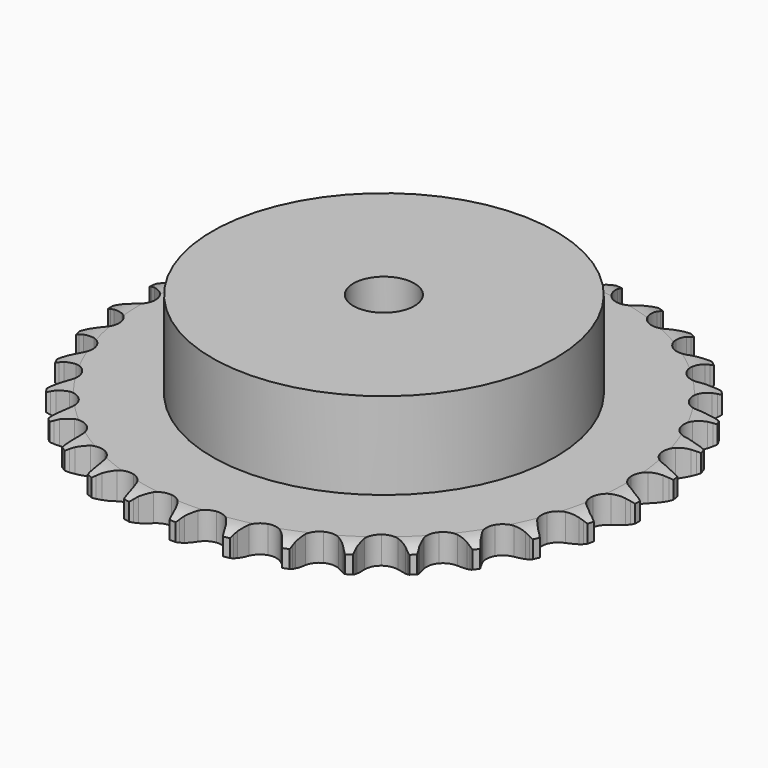
from build123d import *

# Parameters (mm, degrees)
PAD_DEPTH         = 7.2
SKETCH001_R       = 45
PAD001_DEPTH      = 30
SKETCH002_R       = 8
POCKET_DEPTH      = 0.001
POCKET_DEPTH_BACK = 30.001


with BuildPart() as part:
    # Sprocket → Pad (new body)
    with BuildSketch(Plane.XY):
        with BuildLine():
            ThreePointArc((-6.71181, 70.289252), (-5.944232, 69.253929), (-5.382059, 68.094174))
            Line((-5.382059, 68.094174), (-4.966904, 66.984686))
            ThreePointArc((-4.966904, 66.984686), (-4.30897, 65.54703), (-3.453835, 64.217188))
            ThreePointArc((-3.453835, 64.217188), (-1.931189, 62.944673), (0, 62.488321))
            ThreePointArc((0, 62.488321), (1.931189, 62.944673), (3.453835, 64.217188))
            ThreePointArc((3.453835, 64.217188), (4.30897, 65.54703), (4.966904, 66.984686))
            Line((4.966904, 66.984686), (5.382059, 68.094174))
            ThreePointArc((5.382059, 68.094174), (5.944232, 69.253929), (6.71181, 70.289252))
            ThreePointArc((6.71181, 70.289252), (7.26958, 69.127373), (7.602109, 67.882185))
            Line((7.602109, 67.882185), (7.799789, 66.714178))
            ThreePointArc((7.799789, 66.714178), (8.173756, 65.177987), (8.761763, 63.710342))
            ThreePointArc((8.761763, 63.710342), (10.016068, 62.172661), (11.825993, 61.359076))
            ThreePointArc((11.825993, 61.359076), (13.808647, 61.441701), (15.544603, 62.403057))
            Line((15.544603, 62.403057), (17.554081, 64.834193))
            ThreePointArc((17.554081, 64.834193), (17.849425, 65.347856), (18.171705, 65.845062))
            ThreePointArc((18.171705, 65.845062), (18.943204, 66.877467), (19.892847, 67.748815))
            ThreePointArc((19.892847, 67.748815), (20.220651, 66.502374), (20.311517, 65.216757))
            Line((20.311517, 65.216757), (20.284578, 64.032446))
            ThreePointArc((20.284578, 64.032446), (20.361061, 62.453243), (20.660688, 60.900839))
            ThreePointArc((20.660688, 60.900839), (21.601318, 59.153566), (23.224563, 58.012154))
            ThreePointArc((23.224563, 58.012154), (25.187025, 57.718066), (27.073547, 58.333517))
            Line((27.073547, 58.333517), (29.506807, 60.340423))
            ThreePointArc((29.506807, 60.340423), (29.894026, 60.788909), (30.304579, 61.216138))
            ThreePointArc((30.304579, 61.216138), (31.257519, 62.083879), (32.354905, 62.75976))
            ThreePointArc((32.354905, 62.75976), (32.440895, 61.473807), (32.286814, 60.194225))
            Line((32.286814, 60.194225), (32.03623, 59.036415))
            ThreePointArc((32.03623, 59.036415), (31.812464, 57.471275), (31.812882, 55.89022))
            ThreePointArc((31.812882, 55.89022), (32.40584, 53.996508), (33.783737, 52.568521))
            ThreePointArc((33.783737, 52.568521), (35.655079, 51.908349), (37.623984, 52.155652))
            Line((37.623984, 52.155652), (40.393081, 53.665793))
            ThreePointArc((40.393081, 53.665793), (40.858179, 54.032893), (41.342166, 54.374704))
            ThreePointArc((41.342166, 54.374704), (42.442107, 55.046418), (43.647572, 55.502403))
            ThreePointArc((43.647572, 55.502403), (43.48864, 54.223415), (43.095181, 52.996117))
            Line((43.095181, 52.996117), (42.630008, 51.906654))
            ThreePointArc((42.630008, 51.906654), (42.114081, 50.412146), (41.815275, 48.859584))
            ThreePointArc((41.815275, 48.859584), (42.039131, 46.887875), (43.121879, 45.224925))
            ThreePointArc((43.121879, 45.224925), (44.834465, 44.22253), (46.814592, 44.092746))
            Line((46.814592, 44.092746), (49.819444, 45.051541))
            ThreePointArc((49.819444, 45.051541), (50.34561, 45.323987), (50.88554, 45.568025))
            ThreePointArc((50.88554, 45.568025), (52.092726, 46.019436), (53.362702, 46.239045))
            ThreePointArc((53.362702, 46.239045), (52.964592, 45.013248), (52.345976, 43.882592))
            Line((52.345976, 43.882592), (51.683027, 42.900851))
            ThreePointArc((51.683027, 42.900851), (50.893586, 41.53099), (50.306356, 40.063035))
            ThreePointArc((50.306356, 40.063035), (50.153018, 38.084592), (50.901484, 36.246783))
            ThreePointArc((50.901484, 36.246783), (52.393416, 34.938393), (54.313198, 34.436212))
            Line((54.313198, 34.436212), (57.445202, 34.809009))
            ThreePointArc((57.445202, 34.809009), (58.013421, 34.976954), (58.589777, 35.1144))
            ThreePointArc((58.589777, 35.1144), (59.860578, 35.329191), (61.149166, 35.304487))
            ThreePointArc((61.149166, 35.304487), (60.526266, 34.176185), (59.704851, 33.183035))
            Line((59.704851, 33.183035), (58.868087, 32.344499))
            ThreePointArc((58.868087, 32.344499), (57.833665, 31.148797), (56.979234, 29.818503))
            ThreePointArc((56.979234, 29.818503), (56.454244, 27.904833), (56.841376, 25.958587))
            ThreePointArc((56.841376, 25.958587), (58.058733, 24.391491), (59.848784, 23.535065))
            Line((59.848784, 23.535065), (62.99474, 23.308389))
            ThreePointArc((62.99474, 23.308389), (63.584475, 23.365763), (64.176427, 23.391649))
            ThreePointArc((64.176427, 23.391649), (65.464913, 23.362058), (66.725539, 23.093934))
            ThreePointArc((66.725539, 23.093934), (65.900363, 22.103906), (64.905837, 21.284157))
            Line((64.905837, 21.284157), (63.925501, 20.619133))
            ThreePointArc((63.925501, 20.619133), (62.683484, 19.640804), (61.592733, 18.496253))
            ThreePointArc((61.592733, 18.496253), (60.715067, 16.71652), (60.726874, 14.73218))
            ThreePointArc((60.726874, 14.73218), (61.625657, 12.963018), (63.221278, 11.783299))
            Line((63.221278, 11.783299), (66.267485, 10.965343))
            ThreePointArc((66.267485, 10.965343), (66.85742, 10.910072), (67.443574, 10.823463))
            ThreePointArc((67.443574, 10.823463), (68.703175, 10.550559), (69.890277, 10.048705))
            ThreePointArc((69.890277, 10.048705), (68.89265, 9.232734), (67.760958, 8.616014))
            Line((67.760958, 8.616014), (66.67248, 8.148538))
            ThreePointArc((66.67248, 8.148538), (65.267758, 7.422942), (63.980111, 6.5055))
            ThreePointArc((63.980111, 6.5055), (62.781489, 4.924029), (62.417543, 2.973314))
            ThreePointArc((62.417543, 2.973314), (62.965268, 1.066027), (64.308792, -0.394346))
            Line((64.308792, -0.394346), (67.14515, -1.774019))
            ThreePointArc((67.14515, -1.774019), (67.713964, -1.939937), (68.273135, -2.135912))
            ThreePointArc((68.273135, -2.135912), (69.458325, -2.642264), (70.528999, -3.35971))
            ThreePointArc((70.528999, -3.35971), (69.394976, -3.972133), (68.16702, -4.363534))
            Line((68.16702, -4.363534), (67.009743, -4.616567))
            ThreePointArc((67.009743, -4.616567), (65.493086, -5.063204), (64.055081, -5.720379))
            ThreePointArc((64.055081, -5.720379), (62.578824, -7.046429), (61.85228, -8.893015))
            ThreePointArc((61.85228, -8.893015), (62.02915, -10.869493), (63.072017, -12.557739))
            Line((63.072017, -12.557739), (65.596014, -14.449263))
            ThreePointArc((65.596014, -14.449263), (66.123149, -14.719832), (66.635127, -15.018089))
            ThreePointArc((66.635127, -15.018089), (67.703071, -15.73959), (68.618618, -16.646697))
            ThreePointArc((68.618618, -16.646697), (67.389187, -17.033437), (66.109349, -17.185373))
            Line((66.109349, -17.185373), (64.925098, -17.214816))
            ThreePointArc((64.925098, -17.214816), (63.351323, -17.366354), (61.814934, -17.739508))
            ThreePointArc((61.814934, -17.739508), (60.114398, -18.762211), (59.051515, -20.437928))
            ThreePointArc((59.051515, -20.437928), (58.851138, -22.412161), (59.555656, -24.267262))
            Line((59.555656, -24.267262), (61.676068, -26.602273))
            ThreePointArc((61.676068, -26.602273), (62.142471, -26.967714), (62.588751, -27.357473))
            ThreePointArc((62.588751, -27.357473), (63.500851, -28.268045), (64.228182, -29.332028))
            ThreePointArc((64.228182, -29.332028), (62.947778, -29.479109), (61.662314, -29.386087))
            Line((61.662314, -29.386087), (60.493892, -29.190878))
            ThreePointArc((60.493892, -29.190878), (58.919878, -29.041838), (57.340634, -29.117485))
            ThreePointArc((57.340634, -29.117485), (55.47728, -29.799878), (54.116474, -31.244161))
            ThreePointArc((54.116474, -31.244161), (53.546092, -33.144795), (53.886798, -35.099703))
            Line((53.886798, -35.099703), (55.526988, -37.793808))
            ThreePointArc((55.526988, -37.793808), (55.915802, -38.240912), (56.280255, -38.708087))
            ThreePointArc((56.280255, -38.708087), (57.003546, -39.77482), (57.516373, -40.957224))
            ThreePointArc((57.516373, -40.957224), (56.231271, -40.859328), (54.986642, -40.524712))
            Line((54.986642, -40.524712), (53.876278, -40.111905))
            ThreePointArc((53.876278, -40.111905), (52.358915, -39.667674), (50.793893, -39.44308))
            ThreePointArc((50.793893, -39.44308), (48.83507, -39.7605), (47.225522, -40.921148))
            ThreePointArc((47.225522, -40.921148), (46.30575, -42.67949), (46.270331, -44.663549))
            Line((46.270331, -44.663549), (47.371017, -47.619376))
            ThreePointArc((47.371017, -47.619376), (47.668191, -48.131984), (47.937644, -48.65969))
            ThreePointArc((47.937644, -48.65969), (48.445983, -49.844029), (48.725771, -51.102118))
            ThreePointArc((48.725771, -51.102118), (47.48242, -50.762785), (46.32361, -50.198668))
            Line((46.32361, -50.198668), (45.311436, -49.583183))
            ThreePointArc((45.311436, -49.583183), (43.905564, -48.859817), (42.411329, -48.3431))
            ThreePointArc((42.411329, -48.3431), (40.427832, -48.284074), (38.627717, -49.119138))
            ThreePointArc((38.627717, -49.119138), (37.391799, -50.671637), (36.981534, -52.613138))
            Line((36.981534, -52.613138), (37.502935, -55.723856))
            ThreePointArc((37.502935, -55.723856), (37.697726, -56.283441), (37.862441, -56.852604))
            ThreePointArc((37.862441, -56.852604), (38.137456, -58.111745), (38.174094, -59.400049))
            ThreePointArc((38.174094, -59.400049), (37.017431, -58.831542), (35.986321, -58.058313))
            Line((35.986321, -58.058313), (35.10892, -57.262396))
            ThreePointArc((35.10892, -57.262396), (33.865352, -56.286039), (32.49591, -55.495874))
            ThreePointArc((32.49591, -55.495874), (30.559427, -55.062535), (28.633806, -55.541835))
            ThreePointArc((28.633806, -55.541835), (27.12641, -56.832379), (26.356128, -58.661152))
            Line((26.356128, -58.661152), (26.279399, -61.814331))
            ThreePointArc((26.279399, -61.814331), (26.364768, -62.400667), (26.418792, -62.990718))
            ThreePointArc((26.418792, -62.990718), (26.450543, -64.279151), (26.242705, -65.551108))
            ThreePointArc((26.242705, -65.551108), (25.214535, -64.773974), (24.348394, -63.81958))
            Line((24.348394, -63.81958), (23.637477, -62.871997))
            ThreePointArc((23.637477, -62.871997), (22.601158, -61.677937), (21.406003, -60.642883))
            ThreePointArc((21.406003, -60.642883), (19.586526, -59.850893), (17.604995, -59.957105))
            ThreePointArc((17.604995, -59.957105), (15.880602, -60.93905), (14.778142, -62.588998))
            Line((14.778142, -62.588998), (14.106057, -65.670674))
            ThreePointArc((14.106057, -65.670674), (14.078919, -66.262571), (14.020298, -66.852183))
            ThreePointArc((14.020298, -66.852183), (13.807638, -68.123342), (13.362836, -69.332978))
            ThreePointArc((13.362836, -69.332978), (12.50032, -68.375306), (11.830451, -67.274241))
            Line((11.830451, -67.274241), (11.311713, -66.20924))
            ThreePointArc((11.311713, -66.20924), (10.520099, -64.840634), (9.542428, -63.598099))
            ThreePointArc((9.542428, -63.598099), (7.905716, -62.476084), (5.939893, -62.205369))
            ThreePointArc((5.939893, -62.205369), (4.060828, -62.843226), (2.666036, -64.254715))
            Line((2.666036, -64.254715), (1.422886, -67.153508))
            ThreePointArc((1.422886, -67.153508), (1.28422, -67.729573), (1.115074, -68.297435))
            ThreePointArc((1.115074, -68.297435), (0.665688, -69.505377), (0, -70.608975))
            ThreePointArc((0, -70.608975), (-0.665688, -69.505377), (-1.115074, -68.297435))
            Line((-1.115074, -68.297435), (-1.422886, -67.153508))
            ThreePointArc((-1.422886, -67.153508), (-1.941183, -65.659821), (-2.666036, -64.254715))
            ThreePointArc((-2.666036, -64.254715), (-4.060828, -62.843226), (-5.939893, -62.205369))
            ThreePointArc((-5.939893, -62.205369), (-7.905716, -62.476084), (-9.542428, -63.598099))
            Line((-9.542428, -63.598099), (-11.311713, -66.20924))
            ThreePointArc((-11.311713, -66.20924), (-11.556893, -66.748652), (-11.830451, -67.274241))
            ThreePointArc((-11.830451, -67.274241), (-12.50032, -68.375306), (-13.362836, -69.332978))
            ThreePointArc((-13.362836, -69.332978), (-13.807638, -68.123342), (-14.020298, -66.852183))
            Line((-14.020298, -66.852183), (-14.106057, -65.670674))
            ThreePointArc((-14.106057, -65.670674), (-14.332306, -64.105891), (-14.778142, -62.588998))
            ThreePointArc((-14.778142, -62.588998), (-15.880602, -60.93905), (-17.604995, -59.957105))
            ThreePointArc((-17.604995, -59.957105), (-19.586526, -59.850893), (-21.406003, -60.642883))
            Line((-21.406003, -60.642883), (-23.637477, -62.871997))
            ThreePointArc((-23.637477, -62.871997), (-23.980311, -63.35526), (-24.348394, -63.81958))
            ThreePointArc((-24.348394, -63.81958), (-25.214535, -64.773974), (-26.242705, -65.551108))
            ThreePointArc((-26.242705, -65.551108), (-26.450543, -64.279151), (-26.418792, -62.990718))
            Line((-26.418792, -62.990718), (-26.279399, -61.814331))
            ThreePointArc((-26.279399, -61.814331), (-26.205423, -60.235008), (-26.356128, -58.661152))
            ThreePointArc((-26.356128, -58.661152), (-27.12641, -56.832379), (-28.633806, -55.541835))
            ThreePointArc((-28.633806, -55.541835), (-30.559427, -55.062535), (-32.49591, -55.495874))
            Line((-32.49591, -55.495874), (-35.10892, -57.262396))
            ThreePointArc((-35.10892, -57.262396), (-35.537017, -57.672044), (-35.986321, -58.058313))
            ThreePointArc((-35.986321, -58.058313), (-37.017431, -58.831542), (-38.174094, -59.400049))
            ThreePointArc((-38.174094, -59.400049), (-38.137456, -58.111745), (-37.862441, -56.852604))
            Line((-37.862441, -56.852604), (-37.502935, -55.723856))
            ThreePointArc((-37.502935, -55.723856), (-37.131407, -54.187074), (-36.981534, -52.613138))
            ThreePointArc((-36.981534, -52.613138), (-37.391799, -50.671637), (-38.627717, -49.119138))
            ThreePointArc((-38.627717, -49.119138), (-40.427832, -48.284074), (-42.411329, -48.3431))
            Line((-42.411329, -48.3431), (-45.311436, -49.583183))
            ThreePointArc((-45.311436, -49.583183), (-45.809323, -49.904411), (-46.32361, -50.198668))
            ThreePointArc((-46.32361, -50.198668), (-47.48242, -50.762785), (-48.725771, -51.102118))
            ThreePointArc((-48.725771, -51.102118), (-48.445983, -49.844029), (-47.937644, -48.65969))
            Line((-47.937644, -48.65969), (-47.371017, -47.619376))
            ThreePointArc((-47.371017, -47.619376), (-46.715365, -46.180678), (-46.270331, -44.663549))
            ThreePointArc((-46.270331, -44.663549), (-46.30575, -42.67949), (-47.225522, -40.921148))
            ThreePointArc((-47.225522, -40.921148), (-48.83507, -39.7605), (-50.793893, -39.44308))
            Line((-50.793893, -39.44308), (-53.876278, -40.111905))
            ThreePointArc((-53.876278, -40.111905), (-54.425961, -40.333102), (-54.986642, -40.524712))
            ThreePointArc((-54.986642, -40.524712), (-56.231271, -40.859328), (-57.516373, -40.957224))
            ThreePointArc((-57.516373, -40.957224), (-57.003546, -39.77482), (-56.280255, -38.708087))
            Line((-56.280255, -38.708087), (-55.526988, -37.793808))
            ThreePointArc((-55.526988, -37.793808), (-54.610908, -36.505192), (-53.886798, -35.099703))
            ThreePointArc((-53.886798, -35.099703), (-53.546092, -33.144795), (-54.116474, -31.244161))
            ThreePointArc((-54.116474, -31.244161), (-55.47728, -29.799878), (-57.340634, -29.117485))
            Line((-57.340634, -29.117485), (-60.493892, -29.190878))
            ThreePointArc((-60.493892, -29.190878), (-61.075502, -29.304049), (-61.662314, -29.386087))
            ThreePointArc((-61.662314, -29.386087), (-62.947778, -29.479109), (-64.228182, -29.332028))
            ThreePointArc((-64.228182, -29.332028), (-63.500851, -28.268045), (-62.588751, -27.357473))
            Line((-62.588751, -27.357473), (-61.676068, -26.602273))
            ThreePointArc((-61.676068, -26.602273), (-60.532671, -25.510313), (-59.555656, -24.267262))
            ThreePointArc((-59.555656, -24.267262), (-58.851138, -22.412161), (-59.051515, -20.437928))
            ThreePointArc((-59.051515, -20.437928), (-60.114398, -18.762211), (-61.814934, -17.739508))
            Line((-61.814934, -17.739508), (-64.925098, -17.214816))
            ThreePointArc((-64.925098, -17.214816), (-65.517616, -17.215872), (-66.109349, -17.185373))
            ThreePointArc((-66.109349, -17.185373), (-67.389187, -17.033437), (-68.618618, -16.646697))
            ThreePointArc((-68.618618, -16.646697), (-67.703071, -15.73959), (-66.635127, -15.018089))
            Line((-66.635127, -15.018089), (-65.596014, -14.449263))
            ThreePointArc((-65.596014, -14.449263), (-64.266625, -13.593425), (-63.072017, -12.557739))
            ThreePointArc((-63.072017, -12.557739), (-62.02915, -10.869493), (-61.85228, -8.893015))
            ThreePointArc((-61.85228, -8.893015), (-62.578824, -7.046429), (-64.055081, -5.720379))
            Line((-64.055081, -5.720379), (-67.009743, -4.616567))
            ThreePointArc((-67.009743, -4.616567), (-67.591753, -4.505468), (-68.16702, -4.363534))
            ThreePointArc((-68.16702, -4.363534), (-69.394976, -3.972133), (-70.528999, -3.35971))
            ThreePointArc((-70.528999, -3.35971), (-69.458325, -2.642264), (-68.273135, -2.135912))
            Line((-68.273135, -2.135912), (-67.14515, -1.774019))
            ThreePointArc((-67.14515, -1.774019), (-65.677816, -1.185236), (-64.308792, -0.394346))
            ThreePointArc((-64.308792, -0.394346), (-62.965268, 1.066027), (-62.417543, 2.973314))
            ThreePointArc((-62.417543, 2.973314), (-62.781489, 4.924029), (-63.980111, 6.5055))
            Line((-63.980111, 6.5055), (-66.67248, 8.148538))
            ThreePointArc((-66.67248, 8.148538), (-67.222947, 8.367775), (-67.760958, 8.616014))
            ThreePointArc((-67.760958, 8.616014), (-68.89265, 9.232734), (-69.890277, 10.048705))
            ThreePointArc((-69.890277, 10.048705), (-68.703175, 10.550559), (-67.443574, 10.823463))
            Line((-67.443574, 10.823463), (-66.267485, 10.965343))
            ThreePointArc((-66.267485, 10.965343), (-64.71524, 11.265791), (-63.221278, 11.783299))
            ThreePointArc((-63.221278, 11.783299), (-61.625657, 12.963018), (-60.726874, 14.73218))
            ThreePointArc((-60.726874, 14.73218), (-60.715067, 16.71652), (-61.592733, 18.496253))
            Line((-61.592733, 18.496253), (-63.925501, 20.619133))
            ThreePointArc((-63.925501, 20.619133), (-64.424529, 20.938584), (-64.905837, 21.284157))
            ThreePointArc((-64.905837, 21.284157), (-65.900363, 22.103906), (-66.725539, 23.093934))
            ThreePointArc((-66.725539, 23.093934), (-65.464913, 23.362058), (-64.176427, 23.391649))
            Line((-64.176427, 23.391649), (-62.99474, 23.308389))
            ThreePointArc((-62.99474, 23.308389), (-61.413686, 23.309644), (-59.848784, 23.535065))
            ThreePointArc((-59.848784, 23.535065), (-58.058733, 24.391491), (-56.841376, 25.958587))
            ThreePointArc((-56.841376, 25.958587), (-56.454244, 27.904833), (-56.979234, 29.818503))
            Line((-56.979234, 29.818503), (-58.868087, 32.344499))
            ThreePointArc((-58.868087, 32.344499), (-59.297641, 32.752619), (-59.704851, 33.183035))
            ThreePointArc((-59.704851, 33.183035), (-60.526266, 34.176185), (-61.149166, 35.304487))
            ThreePointArc((-61.149166, 35.304487), (-59.860578, 35.329191), (-58.589777, 35.1144))
            Line((-58.589777, 35.1144), (-57.445202, 34.809009))
            ThreePointArc((-57.445202, 34.809009), (-55.892482, 34.511024), (-54.313198, 34.436212))
            ThreePointArc((-54.313198, 34.436212), (-52.393416, 34.938393), (-50.901484, 36.246783))
            ThreePointArc((-50.901484, 36.246783), (-50.153018, 38.084592), (-50.306356, 40.063035))
            Line((-50.306356, 40.063035), (-51.683027, 42.900851))
            ThreePointArc((-51.683027, 42.900851), (-52.027581, 43.382889), (-52.345976, 43.882592))
            ThreePointArc((-52.345976, 43.882592), (-52.964592, 45.013248), (-53.362702, 46.239045))
            ThreePointArc((-53.362702, 46.239045), (-52.092726, 46.019436), (-50.88554, 45.568025))
            Line((-50.88554, 45.568025), (-49.819444, 45.051541))
            ThreePointArc((-49.819444, 45.051541), (-48.351177, 44.465087), (-46.814592, 44.092746))
            ThreePointArc((-46.814592, 44.092746), (-44.834465, 44.22253), (-43.121879, 45.224925))
            ThreePointArc((-43.121879, 45.224925), (-42.039131, 46.887875), (-41.815275, 48.859584))
            Line((-41.815275, 48.859584), (-42.630008, 51.906654))
            ThreePointArc((-42.630008, 51.906654), (-42.877109, 52.445188), (-43.095181, 52.996117))
            ThreePointArc((-43.095181, 52.996117), (-43.48864, 54.223415), (-43.647572, 55.502403))
            ThreePointArc((-43.647572, 55.502403), (-42.442107, 55.046418), (-41.342166, 54.374704))
            Line((-41.342166, 54.374704), (-40.393081, 53.665793))
            ThreePointArc((-40.393081, 53.665793), (-39.062336, 52.812065), (-37.623984, 52.155652))
            ThreePointArc((-37.623984, 52.155652), (-35.655079, 51.908349), (-33.783737, 52.568521))
            ThreePointArc((-33.783737, 52.568521), (-32.40584, 53.996508), (-31.812882, 55.89022))
            Line((-31.812882, 55.89022), (-32.03623, 59.036415))
            ThreePointArc((-32.03623, 59.036415), (-32.176947, 59.611982), (-32.286814, 60.194225))
            ThreePointArc((-32.286814, 60.194225), (-32.440895, 61.473807), (-32.354905, 62.75976))
            ThreePointArc((-32.354905, 62.75976), (-31.257519, 62.083879), (-30.304579, 61.216138))
            Line((-30.304579, 61.216138), (-29.506807, 60.340423))
            ThreePointArc((-29.506807, 60.340423), (-28.361679, 59.250278), (-27.073547, 58.333517))
            ThreePointArc((-27.073547, 58.333517), (-25.187025, 57.718066), (-23.224563, 58.012154))
            ThreePointArc((-23.224563, 58.012154), (-21.601318, 59.153566), (-20.660688, 60.900839))
            Line((-20.660688, 60.900839), (-20.284578, 64.032446))
            ThreePointArc((-20.284578, 64.032446), (-20.313826, 64.624243), (-20.311517, 65.216757))
            ThreePointArc((-20.311517, 65.216757), (-20.220651, 66.502374), (-19.892847, 67.748815))
            ThreePointArc((-19.892847, 67.748815), (-18.943204, 66.877467), (-18.171705, 65.845062))
            Line((-18.171705, 65.845062), (-17.554081, 64.834193))
            ThreePointArc((-17.554081, 64.834193), (-16.635958, 63.547032), (-15.544603, 62.403057))
            ThreePointArc((-15.544603, 62.403057), (-13.808647, 61.441701), (-11.825993, 61.359076))
            ThreePointArc((-11.825993, 61.359076), (-10.016068, 62.172661), (-8.761763, 63.710342))
            Line((-8.761763, 63.710342), (-7.799789, 66.714178))
            ThreePointArc((-7.799789, 66.714178), (-7.71651, 67.300815), (-7.602109, 67.882185))
            ThreePointArc((-7.602109, 67.882185), (-7.26958, 69.127373), (-6.71181, 70.289252))
        make_face()
    extrude(amount=PAD_DEPTH)

    # Sketch → Groove (revolve, cut)
    with BuildSketch(Plane.XZ):
        with BuildLine():
            Line((63.533431, 0), (69.2, 0))
            Line((74.866569, 0), (69.2, 0))
            Line((74.866569, 7.2), (74.866569, 0))
            Line((69.2, 7.2), (74.866569, 7.2))
            Line((63.533431, 7.2), (69.2, 7.2))
            ThreePointArc((69.2, 5.9), (66.44032, 6.870833), (63.533431, 7.2))
            Line((69.2, 1.3), (69.2, 5.9))
            ThreePointArc((63.533431, 0), (66.44032, 0.329167), (69.2, 1.3))
        make_face()
    revolve(axis=Axis((0, 0, 0), (0, 0, 1)), mode=Mode.SUBTRACT)

    # Sketch001 → Pad001 (join)
    with BuildSketch(Plane.XY):
        Circle(SKETCH001_R)
    extrude(amount=PAD001_DEPTH)

    # Sketch002 → Pocket (cut, two sides)
    with BuildSketch(Plane.XY) as pocket_sk:
        Circle(SKETCH002_R)
    extrude(amount=-POCKET_DEPTH, mode=Mode.SUBTRACT)
    extrude(pocket_sk.sketch, amount=POCKET_DEPTH_BACK, mode=Mode.SUBTRACT)


solid = part.part
